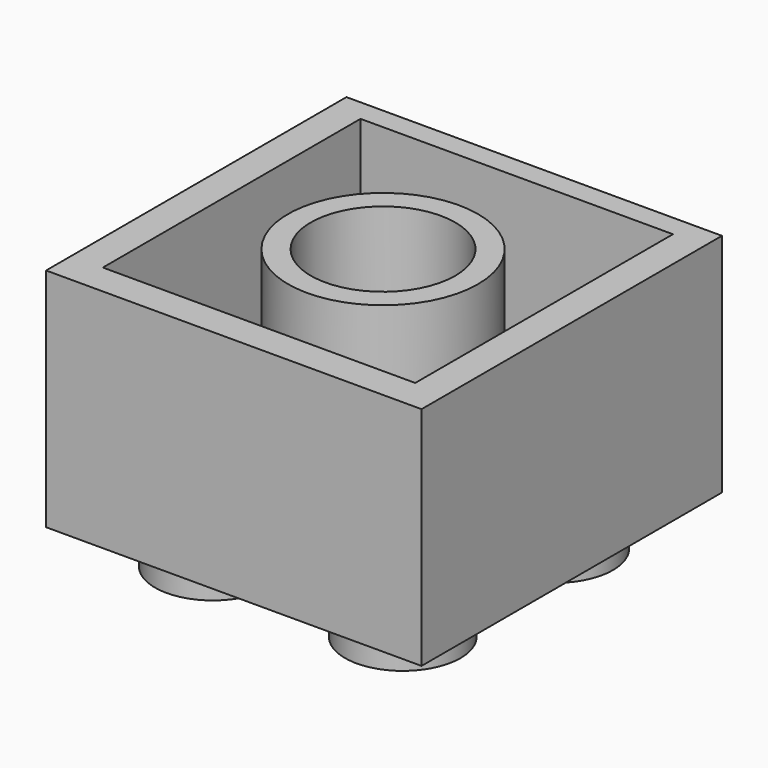
from build123d import *

# Parameters (mm, degrees)
F0_W     = 15.83
F0_H     = 15.83
F0_R     = 2.435
F1_DEPTH = 9.53
F2_DEPTH = 1.77
F3_W     = 13.17
F3_H     = 13.5795233832
F3_R     = 4.0052383084
F3_R_2   = 3.0452383084
F4_DEPTH = 8.54


with BuildPart() as f1:
    # F0 (on Top) → F1 (new body)
    with BuildSketch(Plane.XY):
        with Locations((-0.0172966565, -0.2047616916)):
            Rectangle(F0_W, F0_H)
        with Locations((-4.0272966565, -4.2147616916)):
            Circle(F0_R, mode=Mode.SUBTRACT)
        with Locations((3.9926922612, -4.2280943334)):
            Circle(F0_R, mode=Mode.SUBTRACT)
        with Locations((-4.0272966565, 3.8052383084)):
            Circle(F0_R, mode=Mode.SUBTRACT)
        with Locations((3.9927033435, 3.8052383084)):
            Circle(F0_R, mode=Mode.SUBTRACT)
        with Locations((-4.0272966565, -4.2147616916)):
            Circle(F0_R)
        with Locations((3.9926922612, -4.2280943334)):
            Circle(F0_R)
        with Locations((3.9927033435, 3.8052383084)):
            Circle(F0_R)
        with Locations((-4.0272966565, 3.8052383084)):
            Circle(F0_R)
    extrude(amount=F1_DEPTH)

    # F0 (on Top) → F2 (join)
    with BuildSketch(Plane.XY):
        with Locations((-4.0272966565, -4.2147616916)):
            Circle(F0_R)
        with Locations((3.9926922612, -4.2280943334)):
            Circle(F0_R)
        with Locations((-4.0272966565, 3.8052383084)):
            Circle(F0_R)
        with Locations((3.9927033435, 3.8052383084)):
            Circle(F0_R)
    extrude(amount=-F2_DEPTH)

    # F3 (on face) → F4 (cut)
    with BuildSketch(Plane.XY.offset(9.53)):
        with Locations((-0.0172966565, 0)):
            Rectangle(F3_W, F3_H)
        with Locations((-0.2220583481, 0)):
            Circle(F3_R, mode=Mode.SUBTRACT)
        with Locations((-0.2220583481, 0)):
            Circle(F3_R_2)
    extrude(amount=-F4_DEPTH, mode=Mode.SUBTRACT)


solid = f1.part
